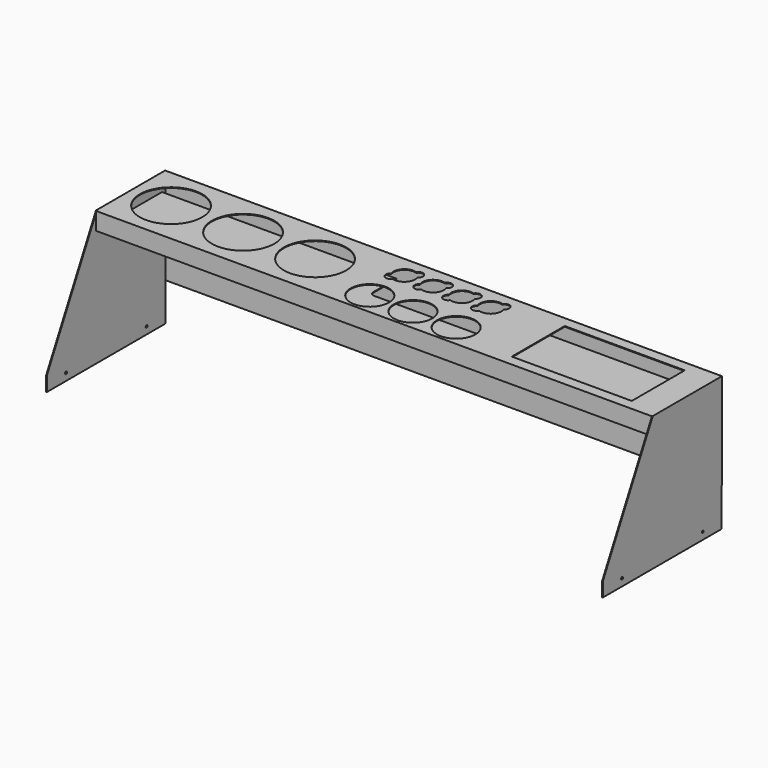
from build123d import *

# Parameters (mm, degrees)
F1_DEPTH  = 1160
F2_T      = -1.5
F3_W      = 1157
F3_H      = 1.5
F4_DEPTH  = 180
F5_W      = 1157
F5_H      = 1.5
F6_DEPTH  = 35
F7_W      = 1157
F7_H      = 1.5
F8_DEPTH  = 170
F9_W      = 1160
F9_H      = 80
F10_DEPTH = 1.5
F11_R     = 65
F11_R_2   = 40
F11_W     = 250
F11_H     = 138
F12_DEPTH = 1.5
F14_DEPTH = 245.001
F15_R     = 2.5
F16_DEPTH = 1160.001


with BuildPart() as f1:
    # F0 (on Right) → F1 (new body)
    with BuildSketch(Plane.YZ):
        Polygon((0, 30), (0, 0), (310, 0), (310, 280), (130, 280), align=None)
    extrude(amount=F1_DEPTH)

    # F2
    f2_openings = [f1.faces().sort_by_distance(p)[0] for p in [
        (580, 65, 155),
        (580, 220, 280),
        (580, 0, 15),
        (580, 155, 0),
    ]]
    offset(amount=F2_T, openings=f2_openings)

    # F3 (on face) → F4 (join)
    with BuildSketch(Plane.XZ.offset(-308.5)):
        with Locations((580, 279.25)):
            Rectangle(F3_W, F3_H)
    extrude(amount=F4_DEPTH)

    # F5 (on face) → F6 (join)
    with BuildSketch(Plane(origin=(0, 0, 278.5), x_dir=(1, 0, 0), z_dir=(0, 0, -1))):
        with Locations((580, -129.25)):
            Rectangle(F5_W, F5_H)
    extrude(amount=F6_DEPTH)

    # F7 (on face) → F8 (join)
    with BuildSketch(Plane(origin=(0, 130, 0), x_dir=(-1, 0, 0), z_dir=(0, 1, 0))):
        with Locations((-580, 244.25)):
            Rectangle(F7_W, F7_H)
    extrude(amount=F8_DEPTH)

    # F9 (on face) → F10 (cut)
    with BuildSketch(Plane(origin=(0, 310, 0), x_dir=(-1, 0, 0), z_dir=(0, 1, 0))):
        with Locations((-580, 40)):
            Rectangle(F9_W, F9_H)
    extrude(amount=-F10_DEPTH, mode=Mode.SUBTRACT)

    # F11 (on face) → F12 (cut, through all)
    with BuildSketch(Plane.XY.offset(280)):
        with Locations((85, 219.25)):
            Circle(F11_R)
        with Locations((235, 219.25)):
            Circle(F11_R)
        with Locations((385, 219.25)):
            Circle(F11_R)
        with Locations((535, 174.25)):
            Circle(F11_R_2)
        with Locations((625, 174.25)):
            Circle(F11_R_2)
        with Locations((715, 174.25)):
            Circle(F11_R_2)
        with BuildLine():
            ThreePointArc((513.767183, 256.805709), (512.01903, 241.26903), (527.555709, 243.017183))
            ThreePointArc((527.555709, 243.017183), (550.909903, 248.340097), (556.232817, 271.694291))
            ThreePointArc((556.232817, 271.694291), (557.98097, 287.23097), (542.444291, 285.482817))
            ThreePointArc((542.444291, 285.482817), (519.090097, 280.159903), (513.767183, 256.805709))
        make_face()
        with BuildLine():
            ThreePointArc((616.232817, 271.694291), (617.98097, 287.23097), (602.444291, 285.482817))
            ThreePointArc((602.444291, 285.482817), (579.090097, 280.159903), (573.767183, 256.805709))
            ThreePointArc((573.767183, 256.805709), (572.01903, 241.26903), (587.555709, 243.017183))
            ThreePointArc((587.555709, 243.017183), (610.909903, 248.340097), (616.232817, 271.694291))
        make_face()
        with BuildLine():
            ThreePointArc((676.232817, 271.694291), (677.98097, 287.23097), (662.444291, 285.482817))
            ThreePointArc((662.444291, 285.482817), (639.090097, 280.159903), (633.767183, 256.805709))
            ThreePointArc((633.767183, 256.805709), (632.01903, 241.26903), (647.555709, 243.017183))
            ThreePointArc((647.555709, 243.017183), (670.909903, 248.340097), (676.232817, 271.694291))
        make_face()
        with BuildLine():
            ThreePointArc((736.232817, 271.694291), (737.98097, 287.23097), (722.444291, 285.482817))
            ThreePointArc((722.444291, 285.482817), (699.090097, 280.159903), (693.767183, 256.805709))
            ThreePointArc((693.767183, 256.805709), (692.01903, 241.26903), (707.555709, 243.017183))
            ThreePointArc((707.555709, 243.017183), (730.909903, 248.340097), (736.232817, 271.694291))
        make_face()
        with Locations((975, 219.25)):
            Rectangle(F11_W, F11_H)
    extrude(amount=-F12_DEPTH, mode=Mode.SUBTRACT)

    # F13 (on face) → F14 (cut, through all)
    with BuildSketch(Plane.XY.offset(245)):
        with BuildLine():
            Line((765, 300), (490, 300))
            Line((490, 300), (490, 240))
            ThreePointArc((490, 240), (492.928932, 232.928932), (500, 230))
            Line((500, 230), (755, 230))
            ThreePointArc((755, 230), (762.071068, 232.928932), (765, 240))
            Line((765, 240), (765, 300))
        make_face()
    extrude(amount=-F14_DEPTH, mode=Mode.SUBTRACT)

    # F15 (on face) → F16 (cut, through all)
    with BuildSketch(Plane.YZ.offset(1160)):
        with Locations((260, 15)):
            Circle(F15_R)
        with Locations((50, 15)):
            Circle(F15_R)
    extrude(amount=-F16_DEPTH, mode=Mode.SUBTRACT)


solid = f1.part
